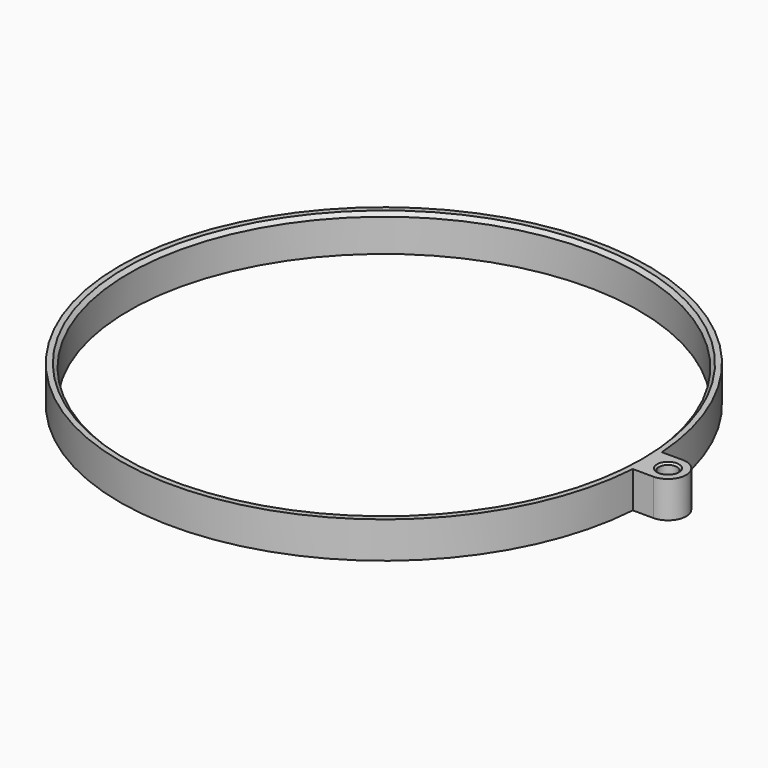
from build123d import *

# Parameters (mm, degrees)
SKETCH_R        = 70
SKETCH_R_2      = 2.5
PAD_DEPTH       = 10
CHAMFER_SIZE    = 1
CHAMFER001_SIZE = 0.5


with BuildPart() as part:
    # Sketch → Pad (new body)
    with BuildSketch(Plane.XY):
        with BuildLine():
            ThreePointArc((72.327497, 4.998325), (-72.5, 0.00084), (72.327381, -5))
            Line((78, -5), (72.327381, -5))
            ThreePointArc((78, -5), (83, 0), (78, 5))
            Line((72.327497, 4.998325), (78, 5))
        make_face()
        Circle(SKETCH_R, mode=Mode.SUBTRACT)
        with Locations((78, 0)):
            Circle(SKETCH_R_2, mode=Mode.SUBTRACT)
    extrude(amount=PAD_DEPTH)

    # Chamfer
    chamfer_edges = [part.edges().sort_by_distance(p)[0] for p in [
        (-70, 0, 10),
    ]]
    chamfer(chamfer_edges, length=CHAMFER_SIZE)

    # Chamfer001
    chamfer001_edges = [part.edges().sort_by_distance(p)[0] for p in [
        (75.5, 0, 10),
    ]]
    chamfer(chamfer001_edges, length=CHAMFER001_SIZE)


solid = part.part
